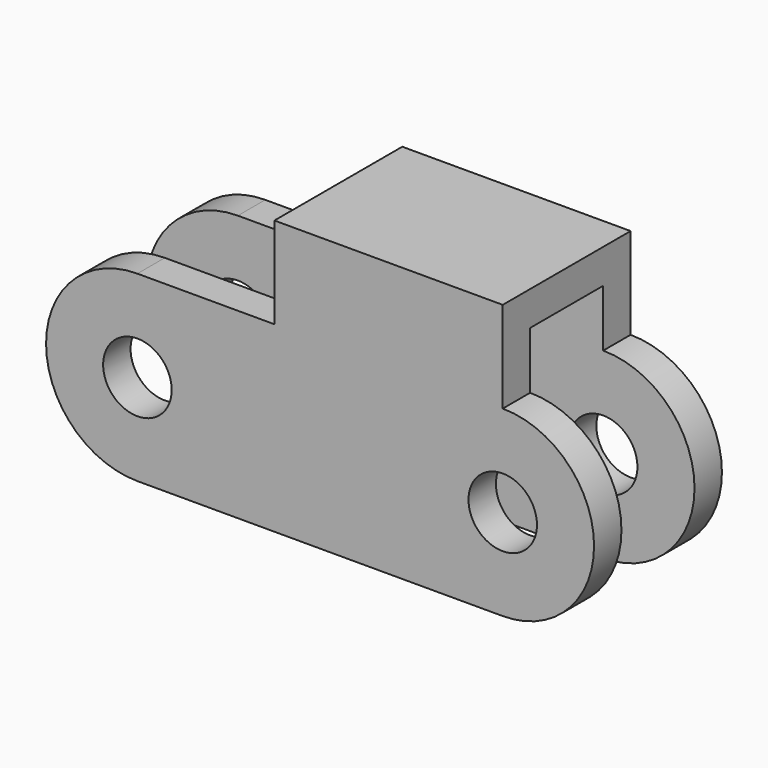
from build123d import *

# Parameters (mm, degrees)
F0_R     = 3
F1_DEPTH = 14
F2_T     = -3


with BuildPart() as f1:
    # F0 (on Front) → F1 (new body)
    with BuildSketch(Plane.XZ):
        with BuildLine():
            ThreePointArc((-16, 8), (-24, 0), (-16, -8))
            Line((-16, -8), (16, -8))
            ThreePointArc((16, -8), (24, 0), (16, 8))
            Line((16, 8), (16, 16))
            Line((16, 16), (-4, 16))
            Line((-4, 16), (-4, 8))
            Line((-4, 8), (-16, 8))
        make_face()
        with Locations((-16, 0)):
            Circle(F0_R, mode=Mode.SUBTRACT)
        with Locations((16, 0)):
            Circle(F0_R, mode=Mode.SUBTRACT)
    extrude(amount=F1_DEPTH)

    # F2
    f2_openings = [f1.faces().sort_by_distance(p)[0] for p in [
        (24, -7, 0),
        (16, -7, 12),
        (-4, -7, 12),
        (-24, -7, 0),
        (-10, -7, 8),
        (0, -7, -8),
        (13, -7, 0),
        (-19, -7, 0),
    ]]
    offset(amount=F2_T, openings=f2_openings)


solid = f1.part
